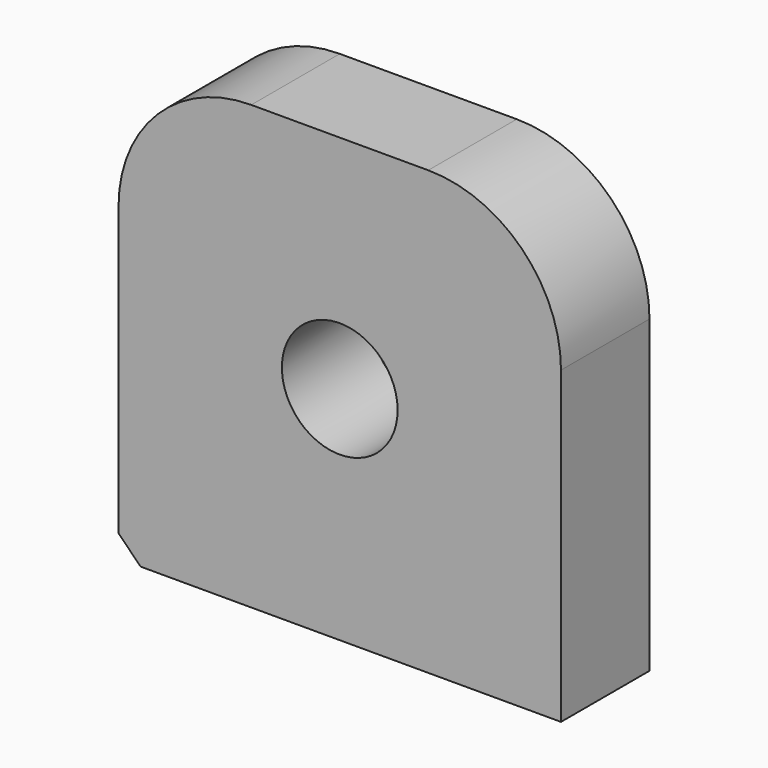
from build123d import *

# Parameters (mm, degrees)
F0_W     = 100
F0_H     = 100
F1_DEPTH = 25
F2_R     = 30
F3_SIZE  = 5
F4_R     = 13.080351
F5_DEPTH = 25


with BuildPart() as f1:
    # F0 (on Front) → F1 (new body)
    with BuildSketch(Plane.XZ):
        Rectangle(F0_W, F0_H)
    extrude(amount=F1_DEPTH)

    # F2
    f2_edges = [f1.edges().sort_by_distance(p)[0] for p in [
        (-50, -12.5, 50),
        (50, -12.5, 50),
    ]]
    fillet(f2_edges, radius=F2_R)

    # F3
    f3_edges = [f1.edges().sort_by_distance(p)[0] for p in [
        (-50, -12.5, -50),
    ]]
    chamfer(f3_edges, length=F3_SIZE)

    # F4 (on face) → F5 (cut)
    with BuildSketch(Plane.XZ.offset(25)):
        Circle(F4_R)
    extrude(amount=-F5_DEPTH, mode=Mode.SUBTRACT)


solid = f1.part
